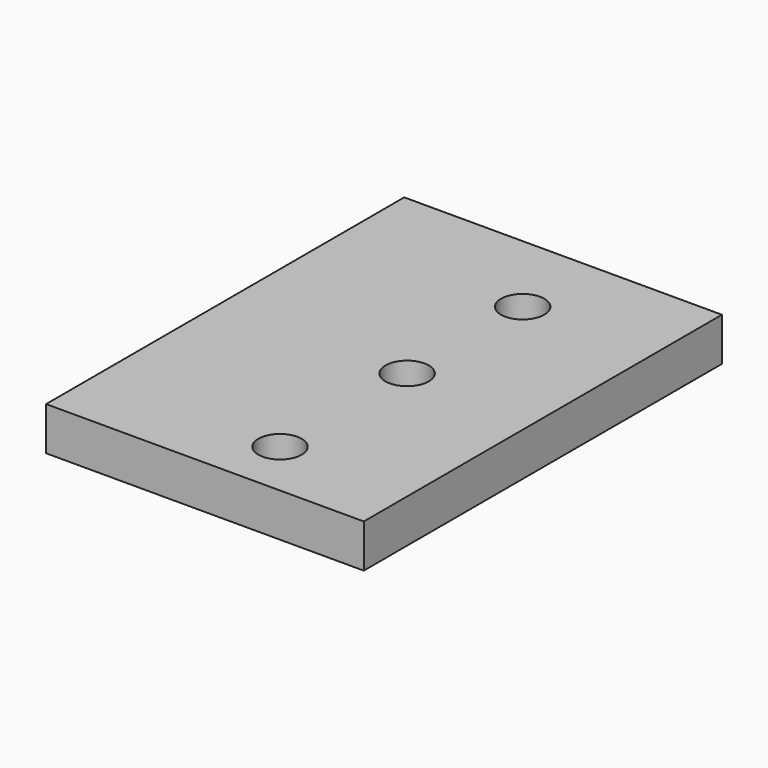
from build123d import *

# Parameters (mm, degrees)
SKETCH_W  = 22
SKETCH_H  = 31
SKETCH_R  = 1.5
PAD_DEPTH = 3


with BuildPart() as part:
    # Sketch → Pad (new body)
    with BuildSketch(Plane.XY):
        with Locations((11, 15.5)):
            Rectangle(SKETCH_W, SKETCH_H)
        with Locations((13, 25)):
            Circle(SKETCH_R, mode=Mode.SUBTRACT)
        with Locations((13, 4)):
            Circle(SKETCH_R, mode=Mode.SUBTRACT)
        with Locations((13, 15)):
            Circle(SKETCH_R, mode=Mode.SUBTRACT)
    extrude(amount=PAD_DEPTH)


solid = part.part
